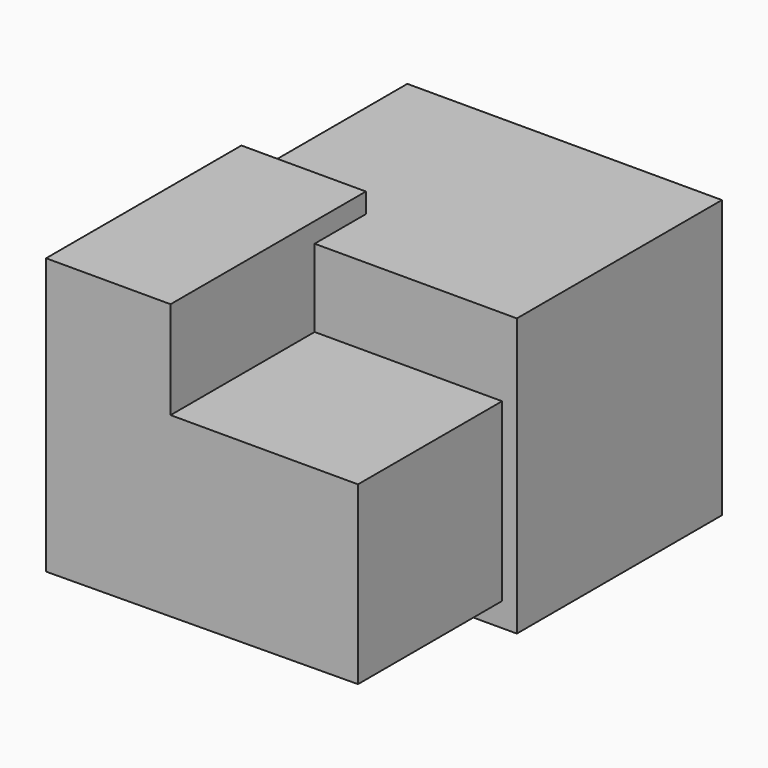
from build123d import *

# Parameters (mm, degrees)
F0_W     = 62.537648
F0_H     = 53.085398
F0_W_2   = 62.155746
F1_DEPTH = 25.4
F2_DEPTH = 76.2
F4_DEPTH = 96.774


with BuildPart() as f1:
    # F0 (on Front) → F1 (new body)
    with BuildSketch(Plane.XZ):
        Polygon((62.155746, 0), (0, 0), (-62.537648, 0), (-62.537648, -56.904487), (62.155746, -56.904487), align=None)
        with Locations((-31.268824, 26.542699)):
            Rectangle(F0_W, F0_H)
        with Locations((31.077873, 26.542699)):
            Rectangle(F0_W_2, F0_H)
    extrude(amount=F1_DEPTH)

    # F0 (on Front) → F2 (join)
    with BuildSketch(Plane.XZ):
        Polygon((62.155746, 0), (0, 0), (-62.537648, 0), (-62.537648, -56.904487), (62.155746, -56.904487), align=None)
        with Locations((-31.268824, 26.542699)):
            Rectangle(F0_W, F0_H)
        with Locations((31.077873, 26.542699)):
            Rectangle(F0_W_2, F0_H)
    extrude(amount=-F2_DEPTH)

    # F3 (on Front) → F4 (join)
    with BuildSketch(Plane.XZ):
        Polygon((-67.348078, 60.978152), (-67.348078, -48.378654), (56.28676, -47.44057), (56.28676, 22.282878), (-18.005297, 22.282878), (-18.005297, 60.978152), align=None)
    extrude(amount=F4_DEPTH)


solid = f1.part
